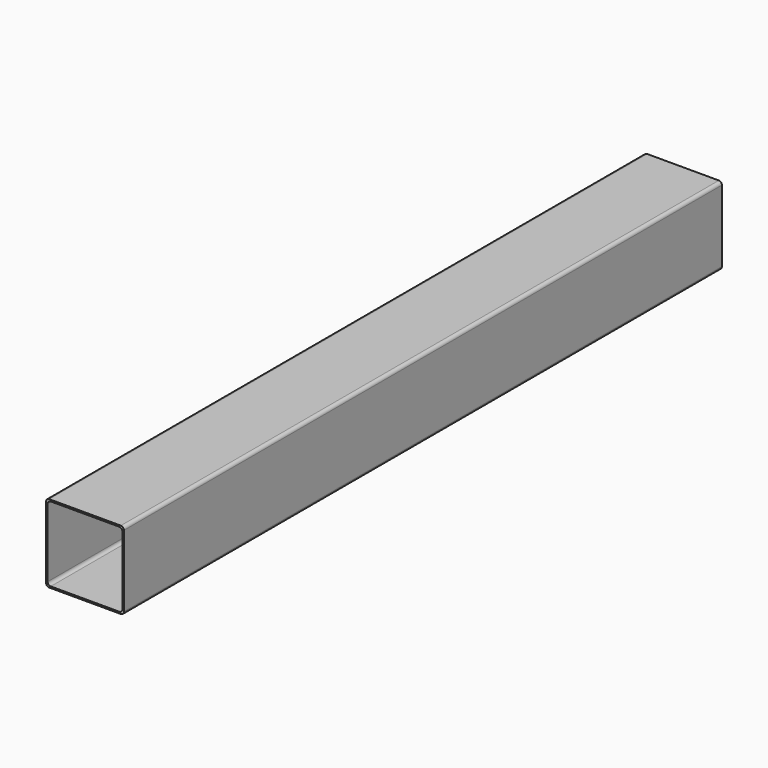
from build123d import *

# Parameters (mm, degrees)
F1_DEPTH = 609.6


with BuildPart() as f1:
    # F0 (on Front) → F1 (new body)
    with BuildSketch(Plane.XZ):
        with BuildLine():
            ThreePointArc((31.75, 29.21), (31.006051, 31.006051), (29.21, 31.75))
            Line((29.21, 31.75), (-29.21, 31.75))
            ThreePointArc((-29.21, 31.75), (-31.006051, 31.006051), (-31.75, 29.21))
            Line((-31.75, 29.21), (-31.75, -29.21))
            ThreePointArc((-31.75, -29.21), (-31.006051, -31.006051), (-29.21, -31.75))
            Line((-29.21, -31.75), (29.21, -31.75))
            ThreePointArc((29.21, -31.75), (31.006051, -31.006051), (31.75, -29.21))
            Line((31.75, -29.21), (31.75, 29.21))
        make_face()
        with BuildLine():
            Line((-27.94, 30.48), (27.94, 30.48))
            ThreePointArc((27.94, 30.48), (29.736051, 29.736051), (30.48, 27.94))
            Line((30.48, 27.94), (30.48, -27.94))
            ThreePointArc((30.48, -27.94), (29.736051, -29.736051), (27.94, -30.48))
            Line((27.94, -30.48), (-27.94, -30.48))
            ThreePointArc((-27.94, -30.48), (-29.736051, -29.736051), (-30.48, -27.94))
            Line((-30.48, -27.94), (-30.48, 27.94))
            ThreePointArc((-30.48, 27.94), (-29.736051, 29.736051), (-27.94, 30.48))
        make_face(mode=Mode.SUBTRACT)
    extrude(amount=F1_DEPTH)


solid = f1.part
